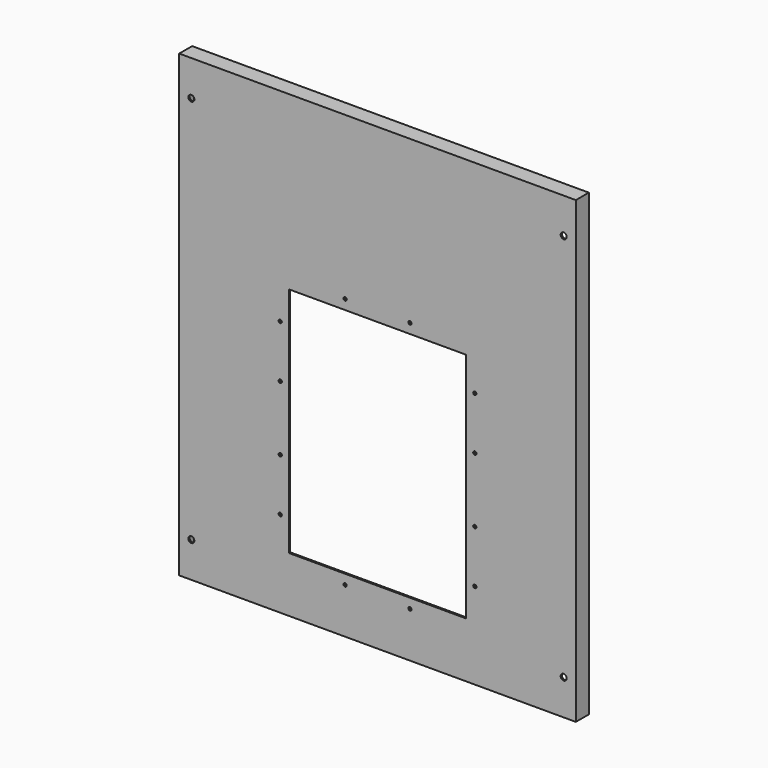
from build123d import *

# Parameters (mm, degrees)
F0_W     = 622.3
F0_H     = 720.725
F0_R     = 4.7625
F0_R_2   = 2.54
F0_W_2   = 278.384
F0_H_2   = 364.236
F1_DEPTH = 25.4
F2_T     = -2.54
F3_W     = 617.22
F3_H     = 22.86
F4_DEPTH = 715.645


with BuildPart() as f1:
    # F0 (on Front) → F1 (new body)
    with BuildSketch(Plane.XZ):
        with Locations((0, 360.3625)):
            Rectangle(F0_W, F0_H)
        with Locations((-292.1, 55.5625)):
            Circle(F0_R, mode=Mode.SUBTRACT)
        with Locations((-50.8, 71.501)):
            Circle(F0_R_2, mode=Mode.SUBTRACT)
        with Locations((-152.654, 135.636)):
            Circle(F0_R_2, mode=Mode.SUBTRACT)
        with Locations((-152.654, 218.186)):
            Circle(F0_R_2, mode=Mode.SUBTRACT)
        with Locations((-152.654, 319.786)):
            Circle(F0_R_2, mode=Mode.SUBTRACT)
        with Locations((50.8, 71.501)):
            Circle(F0_R_2, mode=Mode.SUBTRACT)
        with Locations((152.654, 135.636)):
            Circle(F0_R_2, mode=Mode.SUBTRACT)
        with Locations((292.1, 55.5625)):
            Circle(F0_R, mode=Mode.SUBTRACT)
        with Locations((0, 268.986)):
            Rectangle(F0_W_2, F0_H_2, mode=Mode.SUBTRACT)
        with Locations((152.654, 218.186)):
            Circle(F0_R_2, mode=Mode.SUBTRACT)
        with Locations((152.654, 319.786)):
            Circle(F0_R_2, mode=Mode.SUBTRACT)
        with Locations((-152.654, 402.336)):
            Circle(F0_R_2, mode=Mode.SUBTRACT)
        with Locations((-50.8, 466.471)):
            Circle(F0_R_2, mode=Mode.SUBTRACT)
        with Locations((-292.1, 665.1625)):
            Circle(F0_R, mode=Mode.SUBTRACT)
        with Locations((152.654, 402.336)):
            Circle(F0_R_2, mode=Mode.SUBTRACT)
        with Locations((50.8, 466.471)):
            Circle(F0_R_2, mode=Mode.SUBTRACT)
        with Locations((292.1, 665.1625)):
            Circle(F0_R, mode=Mode.SUBTRACT)
    extrude(amount=F1_DEPTH)

    # F2
    f2_openings = [f1.faces().sort_by_distance(p)[0] for p in [
        (301.627911, 0, 360.3625),
    ]]
    offset(amount=F2_T, openings=f2_openings, kind=Kind.INTERSECTION)

    # F3 (on face) → F4 (cut, through all)
    with BuildSketch(Plane(origin=(0, 0, 718.185), x_dir=(1, 0, 0), z_dir=(0, 0, -1))):
        with Locations((0, 11.43)):
            Rectangle(F3_W, F3_H)
    extrude(amount=F4_DEPTH, mode=Mode.SUBTRACT)


solid = f1.part
